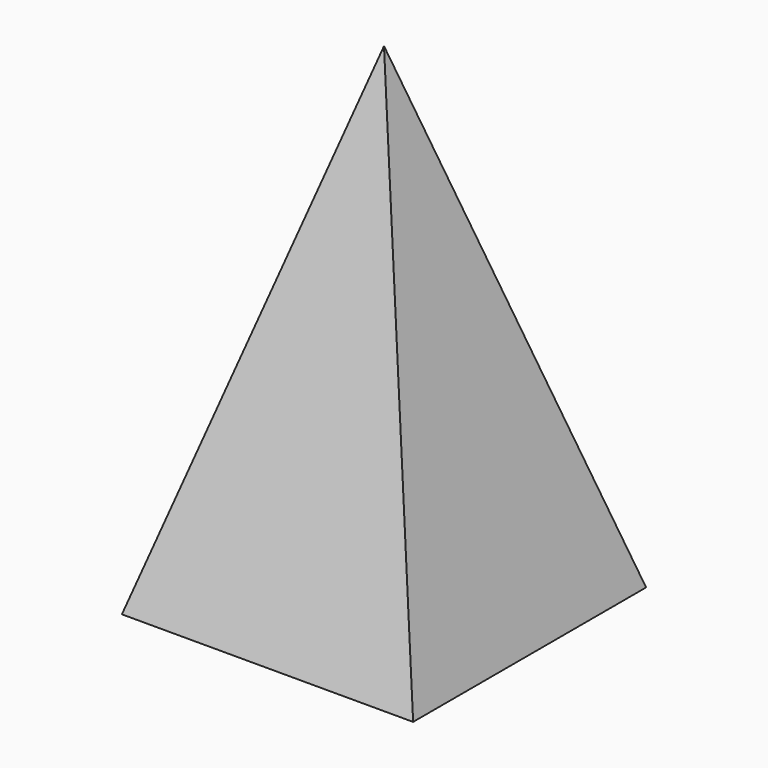
from build123d import *

# Parameters (mm, degrees)
F1_DEPTH = 4
F5_DEPTH = 25
F8_DEPTH = 25


with BuildPart() as f1:
    # F0 (on Front) → F1 (new body)
    with BuildSketch(Plane.XZ):
        Polygon((2, 6.7082039325), (0, 0), (4, 0), align=None)
    extrude(amount=-F1_DEPTH)

    # F4 (on 3pt) → F5 (cut)
    with BuildSketch(Plane(origin=(0, 0, 0), x_dir=(1, 0, 0), z_dir=(0, -0.9583148475, 0.2857142857))):
        Polygon((4, 0), (2, 7), (0, 0), align=None)
    extrude(amount=F5_DEPTH, mode=Mode.SUBTRACT)

    # F7 (on 3pt) → F8 (cut)
    with BuildSketch(Plane(origin=(0, 3.6734693878, 1.0952169686), x_dir=(1, 0, 0), z_dir=(0, -0.9583148475, -0.2857142857))):
        Polygon((4, -1.1428571429), (2, 5.8571428571), (0, -1.1428571429), align=None)
    extrude(amount=-F8_DEPTH, mode=Mode.SUBTRACT)


solid = f1.part
